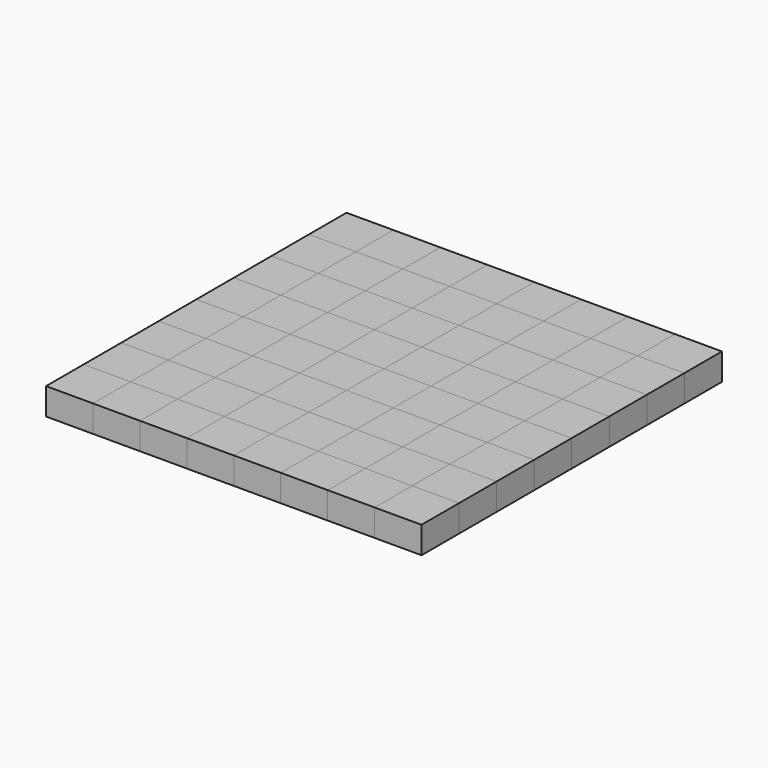
from build123d import *

# Parameters (mm, degrees)
F0_W     = 44.45
F0_H     = 44.45
F1_DEPTH = 25.4
F2_DEPTH = 25.4


with BuildPart() as f1:
    # F0 (on Top) → F1 (new body)
    with BuildSketch(Plane.XY):
        with Locations((-111.125, -155.575)):
            Rectangle(F0_W, F0_H)
    extrude(amount=F1_DEPTH)


with BuildPart() as f1b:
    # F0 (on Top) → F1, piece 2 (new body)
    with BuildSketch(Plane.XY):
        with Locations((-22.225, -155.575)):
            Rectangle(F0_W, F0_H)
    extrude(amount=F1_DEPTH)


with BuildPart() as f1c:
    # F0 (on Top) → F1, piece 3 (new body)
    with BuildSketch(Plane.XY):
        with Locations((66.675, -155.575)):
            Rectangle(F0_W, F0_H)
    extrude(amount=F1_DEPTH)


with BuildPart() as f1d:
    # F0 (on Top) → F1, piece 4 (new body)
    with BuildSketch(Plane.XY):
        with Locations((155.575, -155.575)):
            Rectangle(F0_W, F0_H)
    extrude(amount=F1_DEPTH)


with BuildPart() as f1e:
    # F0 (on Top) → F1, piece 5 (new body)
    with BuildSketch(Plane.XY):
        with Locations((-155.575, -111.125)):
            Rectangle(F0_W, F0_H)
    extrude(amount=F1_DEPTH)


with BuildPart() as f1f:
    # F0 (on Top) → F1, piece 6 (new body)
    with BuildSketch(Plane.XY):
        with Locations((-66.675, -111.125)):
            Rectangle(F0_W, F0_H)
    extrude(amount=F1_DEPTH)


with BuildPart() as f1g:
    # F0 (on Top) → F1, piece 7 (new body)
    with BuildSketch(Plane.XY):
        with Locations((22.225, -111.125)):
            Rectangle(F0_W, F0_H)
    extrude(amount=F1_DEPTH)


with BuildPart() as f1h:
    # F0 (on Top) → F1, piece 8 (new body)
    with BuildSketch(Plane.XY):
        with Locations((111.125, -111.125)):
            Rectangle(F0_W, F0_H)
    extrude(amount=F1_DEPTH)


with BuildPart() as f1i:
    # F0 (on Top) → F1, piece 9 (new body)
    with BuildSketch(Plane.XY):
        with Locations((155.575, -66.675)):
            Rectangle(F0_W, F0_H)
    extrude(amount=F1_DEPTH)


with BuildPart() as f1j:
    # F0 (on Top) → F1, piece 10 (new body)
    with BuildSketch(Plane.XY):
        with Locations((66.675, -66.675)):
            Rectangle(F0_W, F0_H)
    extrude(amount=F1_DEPTH)


with BuildPart() as f1k:
    # F0 (on Top) → F1, piece 11 (new body)
    with BuildSketch(Plane.XY):
        with Locations((-22.225, -66.675)):
            Rectangle(F0_W, F0_H)
    extrude(amount=F1_DEPTH)


with BuildPart() as f1l:
    # F0 (on Top) → F1, piece 12 (new body)
    with BuildSketch(Plane.XY):
        with Locations((-111.125, -66.675)):
            Rectangle(F0_W, F0_H)
    extrude(amount=F1_DEPTH)


with BuildPart() as f1m:
    # F0 (on Top) → F1, piece 13 (new body)
    with BuildSketch(Plane.XY):
        with Locations((-155.575, -22.225)):
            Rectangle(F0_W, F0_H)
    extrude(amount=F1_DEPTH)


with BuildPart() as f1n:
    # F0 (on Top) → F1, piece 14 (new body)
    with BuildSketch(Plane.XY):
        with Locations((-66.675, -22.225)):
            Rectangle(F0_W, F0_H)
    extrude(amount=F1_DEPTH)


with BuildPart() as f1o:
    # F0 (on Top) → F1, piece 15 (new body)
    with BuildSketch(Plane.XY):
        with Locations((22.225, -22.225)):
            Rectangle(F0_W, F0_H)
    extrude(amount=F1_DEPTH)


with BuildPart() as f1p:
    # F0 (on Top) → F1, piece 16 (new body)
    with BuildSketch(Plane.XY):
        with Locations((111.125, -22.225)):
            Rectangle(F0_W, F0_H)
    extrude(amount=F1_DEPTH)


with BuildPart() as f1q:
    # F0 (on Top) → F1, piece 17 (new body)
    with BuildSketch(Plane.XY):
        with Locations((155.575, 22.225)):
            Rectangle(F0_W, F0_H)
    extrude(amount=F1_DEPTH)


with BuildPart() as f1r:
    # F0 (on Top) → F1, piece 18 (new body)
    with BuildSketch(Plane.XY):
        with Locations((66.675, 22.225)):
            Rectangle(F0_W, F0_H)
    extrude(amount=F1_DEPTH)


with BuildPart() as f1s:
    # F0 (on Top) → F1, piece 19 (new body)
    with BuildSketch(Plane.XY):
        with Locations((-22.225, 22.225)):
            Rectangle(F0_W, F0_H)
    extrude(amount=F1_DEPTH)


with BuildPart() as f1t:
    # F0 (on Top) → F1, piece 20 (new body)
    with BuildSketch(Plane.XY):
        with Locations((-111.125, 22.225)):
            Rectangle(F0_W, F0_H)
    extrude(amount=F1_DEPTH)


with BuildPart() as f1u:
    # F0 (on Top) → F1, piece 21 (new body)
    with BuildSketch(Plane.XY):
        with Locations((-155.575, 66.675)):
            Rectangle(F0_W, F0_H)
    extrude(amount=F1_DEPTH)


with BuildPart() as f1v:
    # F0 (on Top) → F1, piece 22 (new body)
    with BuildSketch(Plane.XY):
        with Locations((-66.675, 66.675)):
            Rectangle(F0_W, F0_H)
    extrude(amount=F1_DEPTH)


with BuildPart() as f1w:
    # F0 (on Top) → F1, piece 23 (new body)
    with BuildSketch(Plane.XY):
        with Locations((22.225, 66.675)):
            Rectangle(F0_W, F0_H)
    extrude(amount=F1_DEPTH)


with BuildPart() as f1x:
    # F0 (on Top) → F1, piece 24 (new body)
    with BuildSketch(Plane.XY):
        with Locations((111.125, 66.675)):
            Rectangle(F0_W, F0_H)
    extrude(amount=F1_DEPTH)


with BuildPart() as f1y:
    # F0 (on Top) → F1, piece 25 (new body)
    with BuildSketch(Plane.XY):
        with Locations((155.575, 111.125)):
            Rectangle(F0_W, F0_H)
    extrude(amount=F1_DEPTH)


with BuildPart() as f1z:
    # F0 (on Top) → F1, piece 26 (new body)
    with BuildSketch(Plane.XY):
        with Locations((66.675, 111.125)):
            Rectangle(F0_W, F0_H)
    extrude(amount=F1_DEPTH)


with BuildPart() as f1ba:
    # F0 (on Top) → F1, piece 27 (new body)
    with BuildSketch(Plane.XY):
        with Locations((-22.225, 111.125)):
            Rectangle(F0_W, F0_H)
    extrude(amount=F1_DEPTH)


with BuildPart() as f1bb:
    # F0 (on Top) → F1, piece 28 (new body)
    with BuildSketch(Plane.XY):
        with Locations((-111.125, 111.125)):
            Rectangle(F0_W, F0_H)
    extrude(amount=F1_DEPTH)


with BuildPart() as f1bc:
    # F0 (on Top) → F1, piece 29 (new body)
    with BuildSketch(Plane.XY):
        with Locations((-155.575, 155.575)):
            Rectangle(F0_W, F0_H)
    extrude(amount=F1_DEPTH)


with BuildPart() as f1bd:
    # F0 (on Top) → F1, piece 30 (new body)
    with BuildSketch(Plane.XY):
        with Locations((-66.675, 155.575)):
            Rectangle(F0_W, F0_H)
    extrude(amount=F1_DEPTH)


with BuildPart() as f1be:
    # F0 (on Top) → F1, piece 31 (new body)
    with BuildSketch(Plane.XY):
        with Locations((22.225, 155.575)):
            Rectangle(F0_W, F0_H)
    extrude(amount=F1_DEPTH)


with BuildPart() as f1bf:
    # F0 (on Top) → F1, piece 32 (new body)
    with BuildSketch(Plane.XY):
        with Locations((111.125, 155.575)):
            Rectangle(F0_W, F0_H)
    extrude(amount=F1_DEPTH)


with BuildPart() as f2:
    # F0 (on Top) → F2 (new body)
    with BuildSketch(Plane.XY):
        with Locations((-111.125, 155.575)):
            Rectangle(F0_W, F0_H)
    extrude(amount=F2_DEPTH)


with BuildPart() as f2b:
    # F0 (on Top) → F2, piece 2 (new body)
    with BuildSketch(Plane.XY):
        with Locations((-155.575, 111.125)):
            Rectangle(F0_W, F0_H)
    extrude(amount=F2_DEPTH)


with BuildPart() as f2c:
    # F0 (on Top) → F2, piece 3 (new body)
    with BuildSketch(Plane.XY):
        with Locations((-66.675, 111.125)):
            Rectangle(F0_W, F0_H)
    extrude(amount=F2_DEPTH)


with BuildPart() as f2d:
    # F0 (on Top) → F2, piece 4 (new body)
    with BuildSketch(Plane.XY):
        with Locations((-22.225, 155.575)):
            Rectangle(F0_W, F0_H)
    extrude(amount=F2_DEPTH)


with BuildPart() as f2e:
    # F0 (on Top) → F2, piece 5 (new body)
    with BuildSketch(Plane.XY):
        with Locations((22.225, 111.125)):
            Rectangle(F0_W, F0_H)
    extrude(amount=F2_DEPTH)


with BuildPart() as f2f:
    # F0 (on Top) → F2, piece 6 (new body)
    with BuildSketch(Plane.XY):
        with Locations((66.675, 155.575)):
            Rectangle(F0_W, F0_H)
    extrude(amount=F2_DEPTH)


with BuildPart() as f2g:
    # F0 (on Top) → F2, piece 7 (new body)
    with BuildSketch(Plane.XY):
        with Locations((155.575, 155.575)):
            Rectangle(F0_W, F0_H)
    extrude(amount=F2_DEPTH)


with BuildPart() as f2h:
    # F0 (on Top) → F2, piece 8 (new body)
    with BuildSketch(Plane.XY):
        with Locations((111.125, 111.125)):
            Rectangle(F0_W, F0_H)
    extrude(amount=F2_DEPTH)


with BuildPart() as f2i:
    # F0 (on Top) → F2, piece 9 (new body)
    with BuildSketch(Plane.XY):
        with Locations((155.575, 66.675)):
            Rectangle(F0_W, F0_H)
    extrude(amount=F2_DEPTH)


with BuildPart() as f2j:
    # F0 (on Top) → F2, piece 10 (new body)
    with BuildSketch(Plane.XY):
        with Locations((111.125, 22.225)):
            Rectangle(F0_W, F0_H)
    extrude(amount=F2_DEPTH)


with BuildPart() as f2k:
    # F0 (on Top) → F2, piece 11 (new body)
    with BuildSketch(Plane.XY):
        with Locations((-22.225, 66.675)):
            Rectangle(F0_W, F0_H)
    extrude(amount=F2_DEPTH)


with BuildPart() as f2l:
    # F0 (on Top) → F2, piece 12 (new body)
    with BuildSketch(Plane.XY):
        with Locations((-111.125, 66.675)):
            Rectangle(F0_W, F0_H)
    extrude(amount=F2_DEPTH)


with BuildPart() as f2m:
    # F0 (on Top) → F2, piece 13 (new body)
    with BuildSketch(Plane.XY):
        with Locations((-66.675, 22.225)):
            Rectangle(F0_W, F0_H)
    extrude(amount=F2_DEPTH)


with BuildPart() as f2n:
    # F0 (on Top) → F2, piece 14 (new body)
    with BuildSketch(Plane.XY):
        with Locations((-155.575, 22.225)):
            Rectangle(F0_W, F0_H)
    extrude(amount=F2_DEPTH)


with BuildPart() as f2o:
    # F0 (on Top) → F2, piece 15 (new body)
    with BuildSketch(Plane.XY):
        with Locations((-111.125, -22.225)):
            Rectangle(F0_W, F0_H)
    extrude(amount=F2_DEPTH)


with BuildPart() as f2p:
    # F0 (on Top) → F2, piece 16 (new body)
    with BuildSketch(Plane.XY):
        with Locations((-155.575, -66.675)):
            Rectangle(F0_W, F0_H)
    extrude(amount=F2_DEPTH)


with BuildPart() as f2q:
    # F0 (on Top) → F2, piece 17 (new body)
    with BuildSketch(Plane.XY):
        with Locations((-66.675, -66.675)):
            Rectangle(F0_W, F0_H)
    extrude(amount=F2_DEPTH)


with BuildPart() as f2r:
    # F0 (on Top) → F2, piece 18 (new body)
    with BuildSketch(Plane.XY):
        with Locations((-22.225, -22.225)):
            Rectangle(F0_W, F0_H)
    extrude(amount=F2_DEPTH)


with BuildPart() as f2s:
    # F0 (on Top) → F2, piece 19 (new body)
    with BuildSketch(Plane.XY):
        with Locations((22.225, -66.675)):
            Rectangle(F0_W, F0_H)
    extrude(amount=F2_DEPTH)


with BuildPart() as f2t:
    # F0 (on Top) → F2, piece 20 (new body)
    with BuildSketch(Plane.XY):
        with Locations((66.675, -22.225)):
            Rectangle(F0_W, F0_H)
    extrude(amount=F2_DEPTH)


with BuildPart() as f2u:
    # F0 (on Top) → F2, piece 21 (new body)
    with BuildSketch(Plane.XY):
        with Locations((111.125, -66.675)):
            Rectangle(F0_W, F0_H)
    extrude(amount=F2_DEPTH)


with BuildPart() as f2v:
    # F0 (on Top) → F2, piece 22 (new body)
    with BuildSketch(Plane.XY):
        with Locations((155.575, -111.125)):
            Rectangle(F0_W, F0_H)
    extrude(amount=F2_DEPTH)


with BuildPart() as f2w:
    # F0 (on Top) → F2, piece 23 (new body)
    with BuildSketch(Plane.XY):
        with Locations((155.575, -22.225)):
            Rectangle(F0_W, F0_H)
    extrude(amount=F2_DEPTH)


with BuildPart() as f2x:
    # F0 (on Top) → F2, piece 24 (new body)
    with BuildSketch(Plane.XY):
        with Locations((111.125, -155.575)):
            Rectangle(F0_W, F0_H)
    extrude(amount=F2_DEPTH)


with BuildPart() as f2y:
    # F0 (on Top) → F2, piece 25 (new body)
    with BuildSketch(Plane.XY):
        with Locations((66.675, -111.125)):
            Rectangle(F0_W, F0_H)
    extrude(amount=F2_DEPTH)


with BuildPart() as f2z:
    # F0 (on Top) → F2, piece 26 (new body)
    with BuildSketch(Plane.XY):
        with Locations((22.225, -155.575)):
            Rectangle(F0_W, F0_H)
    extrude(amount=F2_DEPTH)


with BuildPart() as f2ba:
    # F0 (on Top) → F2, piece 27 (new body)
    with BuildSketch(Plane.XY):
        with Locations((-22.225, -111.125)):
            Rectangle(F0_W, F0_H)
    extrude(amount=F2_DEPTH)


with BuildPart() as f2bb:
    # F0 (on Top) → F2, piece 28 (new body)
    with BuildSketch(Plane.XY):
        with Locations((-66.675, -155.575)):
            Rectangle(F0_W, F0_H)
    extrude(amount=F2_DEPTH)


with BuildPart() as f2bc:
    # F0 (on Top) → F2, piece 29 (new body)
    with BuildSketch(Plane.XY):
        with Locations((-111.125, -111.125)):
            Rectangle(F0_W, F0_H)
    extrude(amount=F2_DEPTH)


with BuildPart() as f2bd:
    # F0 (on Top) → F2, piece 30 (new body)
    with BuildSketch(Plane.XY):
        with Locations((-155.575, -155.575)):
            Rectangle(F0_W, F0_H)
    extrude(amount=F2_DEPTH)


with BuildPart() as f2be:
    # F0 (on Top) → F2, piece 31 (new body)
    with BuildSketch(Plane.XY):
        with Locations((22.225, 22.225)):
            Rectangle(F0_W, F0_H)
    extrude(amount=F2_DEPTH)


with BuildPart() as f2bf:
    # F0 (on Top) → F2, piece 32 (new body)
    with BuildSketch(Plane.XY):
        with Locations((66.675, 66.675)):
            Rectangle(F0_W, F0_H)
    extrude(amount=F2_DEPTH)


solid = Compound([f1.part, f1b.part, f1c.part, f1d.part, f1e.part, f1f.part, f1g.part, f1h.part, f1i.part, f1j.part, f1k.part, f1l.part, f1m.part, f1n.part, f1o.part, f1p.part, f1q.part, f1r.part, f1s.part, f1t.part, f1u.part, f1v.part, f1w.part, f1x.part, f1y.part, f1z.part, f1ba.part, f1bb.part, f1bc.part, f1bd.part, f1be.part, f1bf.part, f2.part, f2b.part, f2c.part, f2d.part, f2e.part, f2f.part, f2g.part, f2h.part, f2i.part, f2j.part, f2k.part, f2l.part, f2m.part, f2n.part, f2o.part, f2p.part, f2q.part, f2r.part, f2s.part, f2t.part, f2u.part, f2v.part, f2w.part, f2x.part, f2y.part, f2z.part, f2ba.part, f2bb.part, f2bc.part, f2bd.part, f2be.part, f2bf.part])
